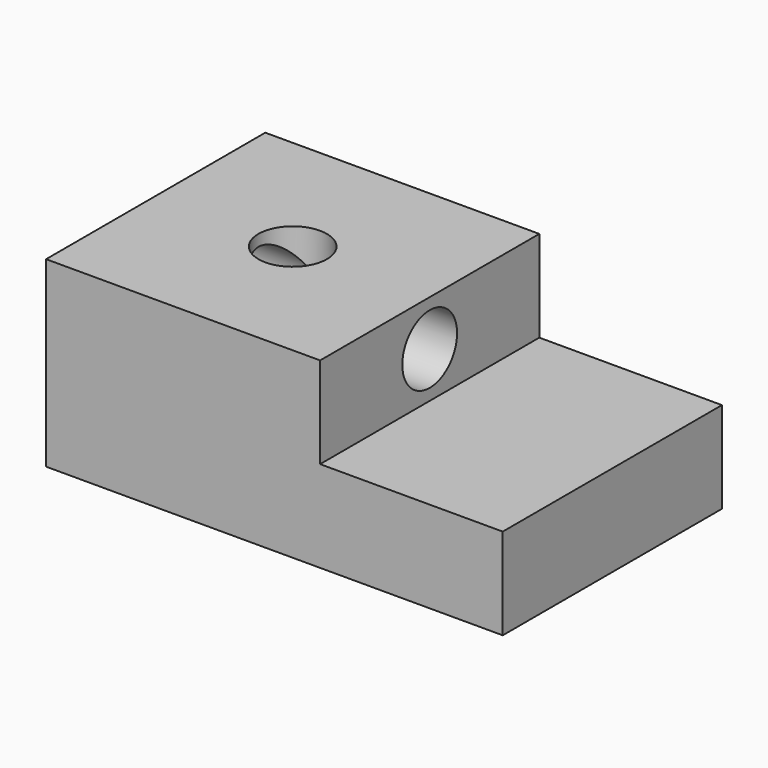
from build123d import *

# Parameters (mm, degrees)
F1_DEPTH = 38.1
F3_D     = 19.05
F5_D     = 19.05


with BuildPart() as f1:
    # F0 (on Front) → F1 (new body, symmetric)
    with BuildSketch(Plane.XZ):
        Polygon((-53.739256, 50.8), (-53.739256, 0), (73.260744, 0), (73.260744, 25.4), (22.470463, 25.4), (22.470463, 50.8), align=None)
    extrude(amount=F1_DEPTH, both=True)

    # F3 (through all)
    with Locations(Plane.YZ.offset(22.470463)):
        with Locations((0, 38.1)):
            Hole(F3_D / 2)

    # F5 (through all)
    with Locations(Plane.XY.offset(50.8)):
        with Locations((-15.634397, 0)):
            Hole(F5_D / 2)


solid = f1.part
